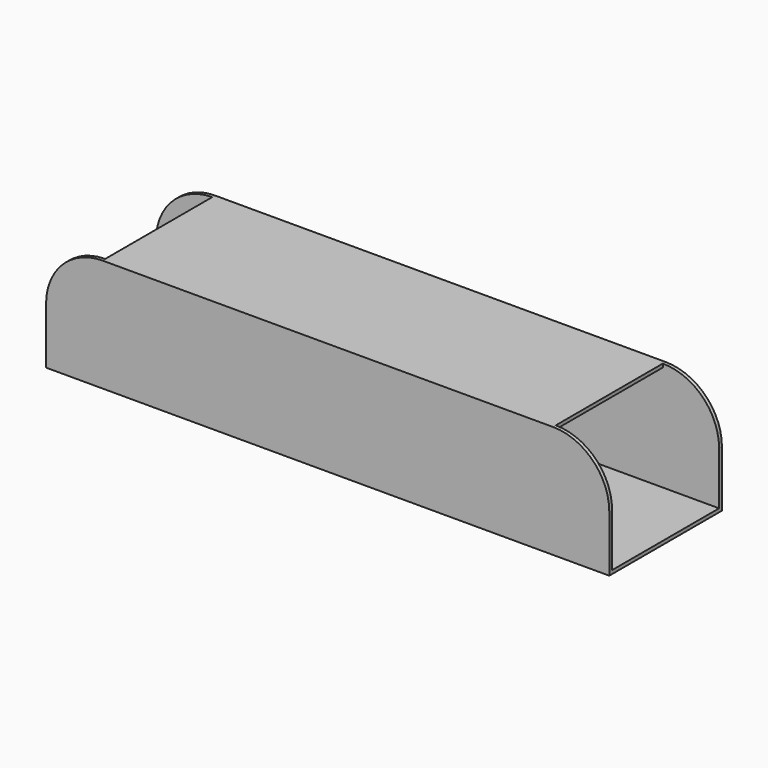
from build123d import *

# Parameters (mm, degrees)
F0_W      = 160
F0_H      = 38
F1_DEPTH  = 1
F2_W      = 160
F2_H      = 32
F3_DEPTH  = 1
F4_W      = 160
F4_H      = 32
F5_DEPTH  = 1
F7_DEPTH  = 40.001
F8_DEPTH  = 40.001
F9_W      = 128
F9_H      = 1
F10_DEPTH = 38


with BuildPart() as f1:
    # F0 (on Top) → F1 (new body)
    with BuildSketch(Plane.XY):
        Rectangle(F0_W, F0_H)
    extrude(amount=F1_DEPTH)

    # F2 (on face) → F3 (join)
    with BuildSketch(Plane.XZ.offset(19)):
        with Locations((0, 16)):
            Rectangle(F2_W, F2_H)
    extrude(amount=F3_DEPTH)

    # F4 (on face) → F5 (join)
    with BuildSketch(Plane(origin=(0, 19, 0), x_dir=(-1, 0, 0), z_dir=(0, 1, 0))):
        with Locations((0, 16)):
            Rectangle(F4_W, F4_H)
    extrude(amount=F5_DEPTH)

    # F6 (on face) → F7 (cut, through all)
    with BuildSketch(Plane.XZ.offset(20)):
        with BuildLine():
            ThreePointArc((-80, 16), (-75.313708, 27.313708), (-64, 32))
            Line((-64, 32), (-80, 32))
            Line((-80, 32), (-80, 16))
        make_face()
    extrude(amount=-F7_DEPTH, mode=Mode.SUBTRACT)

    # F6 (on face) → F8 (cut, through all)
    with BuildSketch(Plane.XZ.offset(20)):
        with BuildLine():
            Line((80, 32), (64, 32))
            ThreePointArc((64, 32), (75.313708, 27.313708), (80, 16))
            Line((80, 16), (80, 32))
        make_face()
    extrude(amount=-F8_DEPTH, mode=Mode.SUBTRACT)

    # F9 (on face) → F10 (join)
    with BuildSketch(Plane(origin=(0, -19, 0), x_dir=(-1, 0, 0), z_dir=(0, 1, 0))):
        with Locations((0, 31.5)):
            Rectangle(F9_W, F9_H)
    extrude(amount=F10_DEPTH)


solid = f1.part
